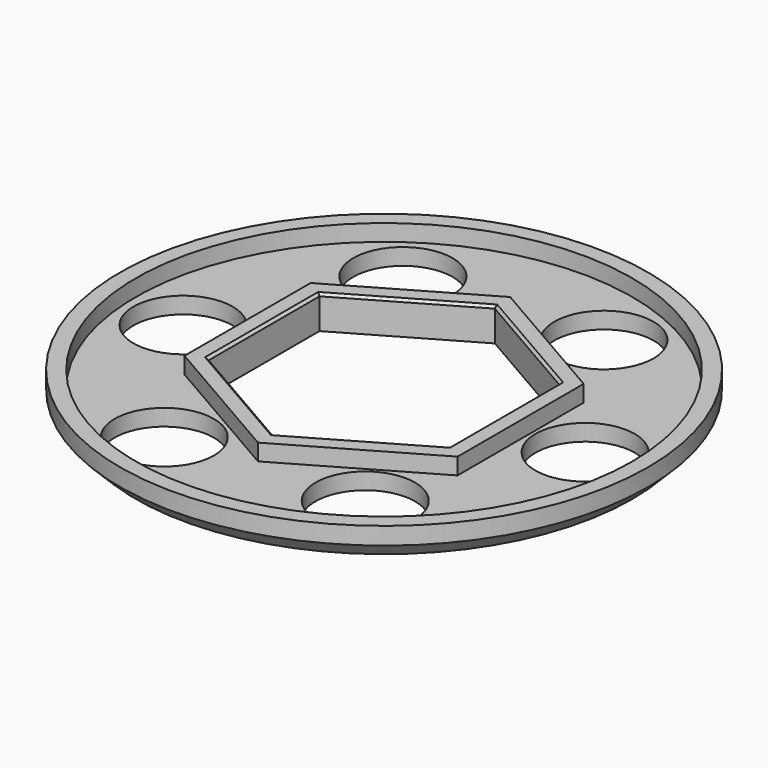
from build123d import *

# Parameters (mm, degrees)
SKETCH_R        = 31.9
SKETCH_R_2      = 6
PAD_DEPTH       = 2
SKETCH001_R     = 31.9
SKETCH001_R_2   = 30
PAD001_DEPTH    = 2
PAD002_DEPTH    = 2
CHAMFER_SIZE    = 1.9
CHAMFER001_SIZE = 0.3


with BuildPart() as part:
    # Sketch → Pad (new body)
    with BuildSketch(Plane.XY):
        Circle(SKETCH_R)
        with Locations((9.999037, 20.71278)):
            Circle(SKETCH_R_2, mode=Mode.SUBTRACT)
        with Locations((22.937312, 1.69697)):
            Circle(SKETCH_R_2, mode=Mode.SUBTRACT)
        with Locations((12.938275, -19.01581)):
            Circle(SKETCH_R_2, mode=Mode.SUBTRACT)
        with Locations((-9.999037, -20.71278)):
            Circle(SKETCH_R_2, mode=Mode.SUBTRACT)
        with Locations((-22.937312, -1.69697)):
            Circle(SKETCH_R_2, mode=Mode.SUBTRACT)
        with Locations((-12.938275, 19.01581)):
            Circle(SKETCH_R_2, mode=Mode.SUBTRACT)
        Polygon((0, 16.743158), (-14.5, 8.371579), (-14.5, -8.371579), (0, -16.743158), (14.5, -8.371579), (14.5, 8.371579), align=None, mode=Mode.SUBTRACT)
    extrude(amount=PAD_DEPTH)

    # Sketch001 (on Face15 of Pad) → Pad001 (join)
    with BuildSketch(Plane.XY.offset(2)):
        Circle(SKETCH001_R)
        Circle(SKETCH001_R_2, mode=Mode.SUBTRACT)
    extrude(amount=PAD001_DEPTH)

    # Sketch002 (on Face17 of Pad001) → Pad002 (join)
    with BuildSketch(Plane.XY.offset(2)):
        Polygon((0, 19.052559), (-16.5, 9.526279), (-16.5, -9.526279), (0, -19.052559), (16.5, -9.526279), (16.5, 9.526279), align=None)
        Polygon((0, 16.743158), (-14.5, 8.371579), (-14.5, -8.371579), (0, -16.743158), (14.5, -8.371579), (14.5, 8.371579), align=None, mode=Mode.SUBTRACT)
    extrude(amount=PAD002_DEPTH)

    # Chamfer
    chamfer_edges = [part.edges().sort_by_distance(p)[0] for p in [
        (-31.9, 0, 0),
    ]]
    chamfer(chamfer_edges, length=CHAMFER_SIZE)

    # Chamfer001
    chamfer001_edges = [part.edges().sort_by_distance(p)[0] for p in [
        (-7.25, -12.557368, 4),
        (-14.5, 0, 4),
        (-7.25, 12.557368, 4),
        (7.25, 12.557368, 4),
        (14.5, 0, 4),
        (7.25, -12.557368, 4),
    ]]
    chamfer(chamfer001_edges, length=CHAMFER001_SIZE)


solid = part.part
